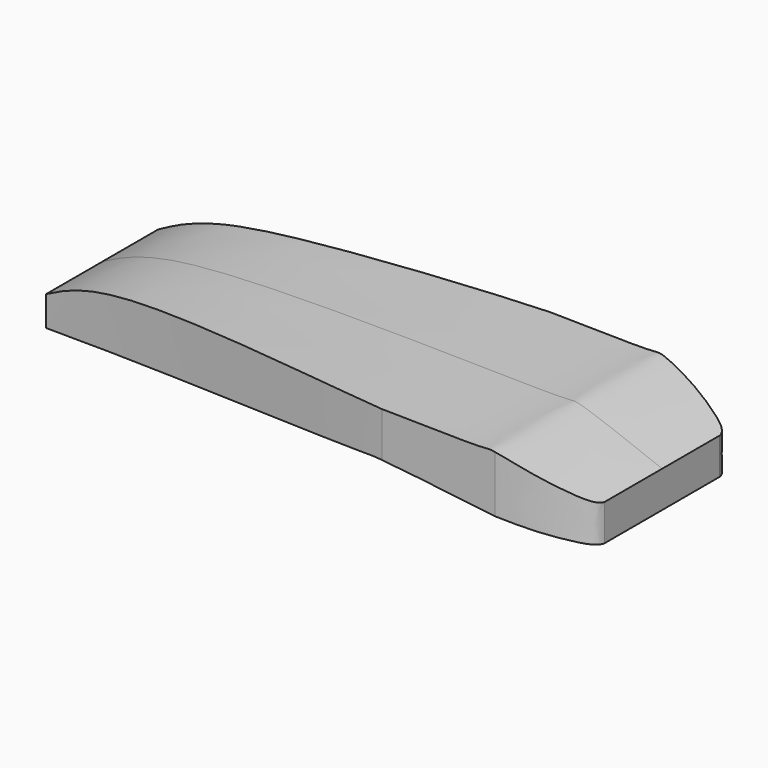
from build123d import *

# Parameters (mm, degrees)
F1_DEPTH = 150
F3_DEPTH = 150


with BuildPart() as f1:
    # F0 (on Top) → F1 (new body)
    with BuildSketch(Plane.XY):
        with BuildLine():
            Line((400, -100), (400, 100))
            add(Edge.make_bspline(
                [(-400, 100), (-168.5507595539, 115.3926700354), (162.288749438, 166.5711079783), (315.2278392251, 146.744521844), (366.6523385737, 130.1921962003), (401.1527735929, 113.0332387431), (400, 100)],
                knots=[0, 0, 0, 0, 0.4902651651, 0.7243731519, 0.8720492663, 1, 1, 1, 1], degree=3))
            Line((-400, 100), (-400, -100))
            add(Edge.make_bspline(
                [(-400, -100), (-168.5507595539, -115.3926700354), (162.288749438, -166.5711079783), (315.2278392251, -146.744521844), (366.6523385737, -130.1921962003), (401.1527735929, -113.0332387431), (400, -100)],
                knots=[0, 0, 0, 0, 0.4902651651, 0.7243731519, 0.8720492663, 1, 1, 1, 1], degree=3))
        make_face()
    extrude(amount=F1_DEPTH)

    # F2 (on Front) → F3 (intersect, symmetric)
    with BuildSketch(Plane.XZ):
        with BuildLine():
            Line((-400, 75), (-400, 32.3468707502))
            add(Edge.make_bspline(
                [(400, 23.0410713702), (277.2479313446, 37.9787261625), (120.0728392478, 57.1053062146), (97.4396113708, 55.1761969678), (-174.9542970004, 42.6750425528), (-400, 32.3468707502)],
                knots=[0, 0, 0, 0, 0.3826585255, 0.4899663984, 1, 1, 1, 1], degree=3))
            Line((400, 23.0410713702), (400, 75))
            add(Edge.make_bspline(
                [(400, 75), (348.7577606959, 94.8425333759), (277.3286973222, 122.5020110499), (263.8354592175, 113.5801598458), (-285.0914642346, 135.8970504749), (-370.8871030795, 90.4287019796), (-400, 75)],
                knots=[0, 0, 0, 0, 0.2236095096, 0.3117002311, 0.7664403402, 1, 1, 1, 1], degree=3))
        make_face()
    extrude(amount=F3_DEPTH, both=True, mode=Mode.INTERSECT)


solid = f1.part
